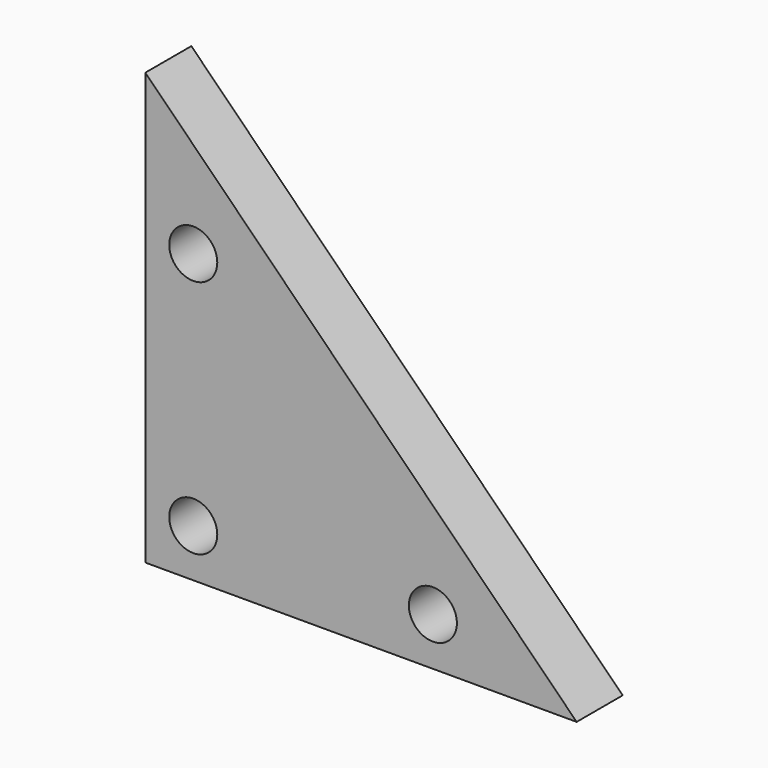
from build123d import *

# Parameters (mm, degrees)
F0_R     = 2.505
F1_DEPTH = 6


with BuildPart() as f1:
    # F0 (on Front) → F1 (new body)
    with BuildSketch(Plane.XZ):
        Polygon((0, 45), (0, 0), (45, 0), align=None)
        with Locations((5, 5)):
            Circle(F0_R, mode=Mode.SUBTRACT)
        with Locations((30, 5)):
            Circle(F0_R, mode=Mode.SUBTRACT)
        with Locations((5, 30)):
            Circle(F0_R, mode=Mode.SUBTRACT)
    extrude(amount=F1_DEPTH)


solid = f1.part
